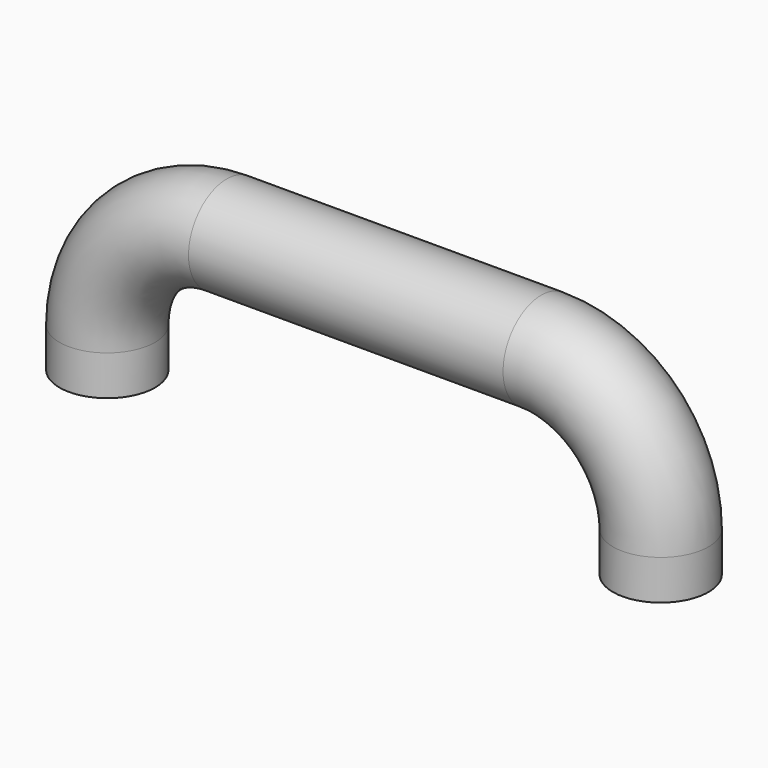
from build123d import *

# Parameters (mm, degrees)
F0_R     = 6
F0_R_2   = 1.25
F3_DEPTH = 12
F4_DEPTH = 12


with BuildPart() as f2:
    # F2: sweep along a path in F1
    with BuildLine(Plane.XZ) as f2_path:
        Line((0, 0), (0, 5))
        ThreePointArc((0, 5), (4.3933982822, 15.6066017178), (15, 20))
        Line((15, 20), (54.5, 20))
        ThreePointArc((54.5, 20), (65.1066017178, 15.6066017178), (69.5, 5))
        Line((69.5, 5), (69.5, 0))
    # F0 (on Top) → F2 (sweep)
    with BuildSketch(Plane.XY):
        Circle(F0_R)
        Circle(F0_R_2, mode=Mode.SUBTRACT)
        Circle(F0_R_2)
    sweep(path=f2_path.line)

    # F0 (on Top) → F3 (cut)
    with BuildSketch(Plane.XY):
        Circle(F0_R_2)
    extrude(amount=F3_DEPTH, mode=Mode.SUBTRACT)

    # F0 (on Top) → F4 (cut)
    with BuildSketch(Plane.XY):
        with BuildLine():
            ThreePointArc((70.75, 0), (69.5, 1.25), (68.25, 0))
            ThreePointArc((68.25, 0), (69.5, -1.25), (70.75, 0))
        make_face()
    extrude(amount=F4_DEPTH, mode=Mode.SUBTRACT)


solid = f2.part
